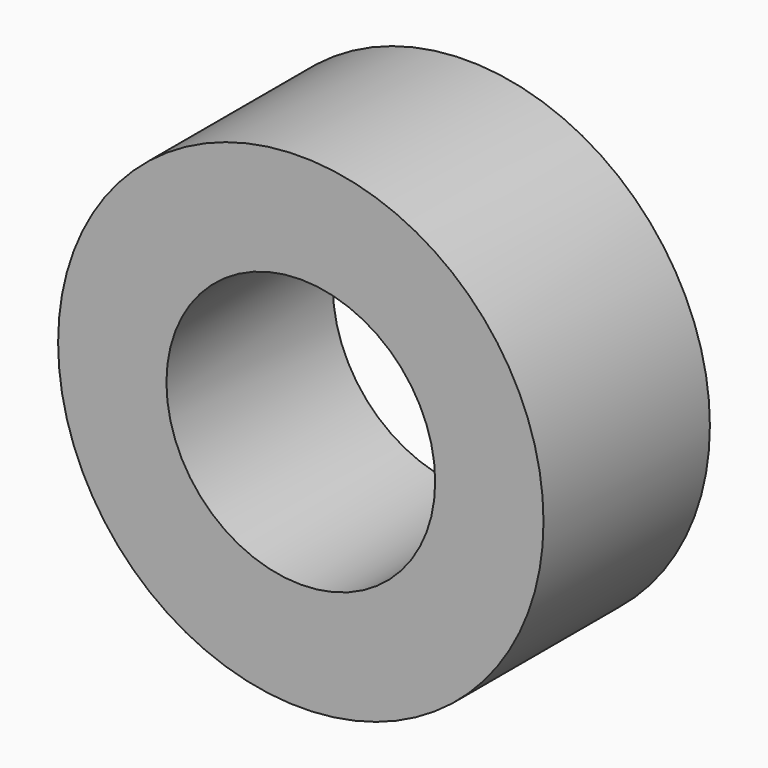
from build123d import *

# Parameters (mm, degrees)
F0_R     = 29.641135
F0_R_2   = 16.410247
F1_DEPTH = 25.4


with BuildPart() as f1:
    # F0 (on Front) → F1 (new body)
    with BuildSketch(Plane.XZ):
        with Locations((-18.918645, 10.305871)):
            Circle(F0_R)
        with Locations((-18.918645, 10.305871)):
            Circle(F0_R_2, mode=Mode.SUBTRACT)
    extrude(amount=-F1_DEPTH)


solid = f1.part
